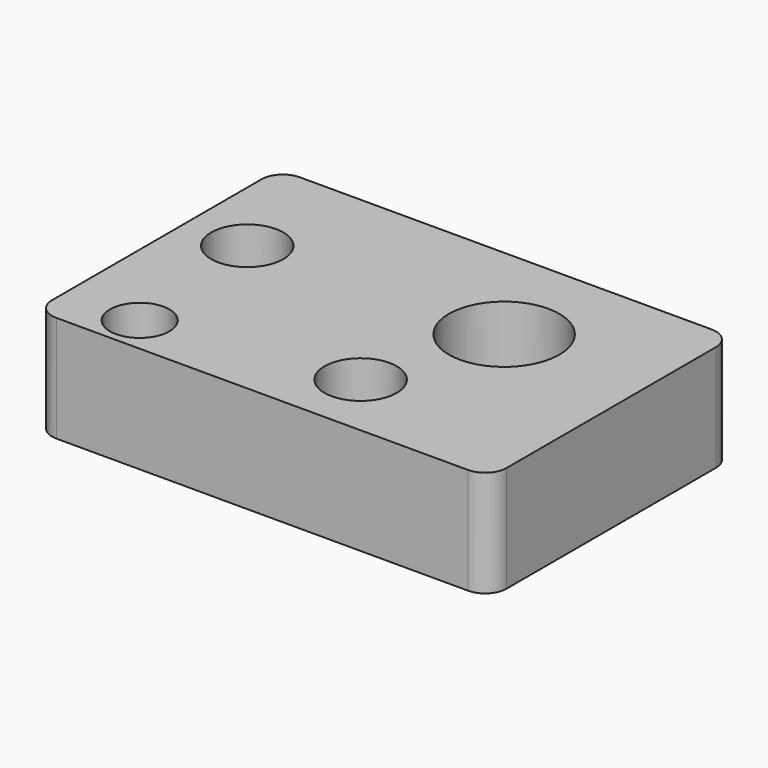
from build123d import *

# Parameters (mm, degrees)
F0_W     = 106.902622
F0_H     = 71.619071
F1_DEPTH = 25
F2_R     = 5
F4_D     = 14
F5_D     = 17
F6_D     = 17
F7_D     = 26


with BuildPart() as f1:
    # F0 (on Top) → F1 (new body)
    with BuildSketch(Plane.XY):
        with Locations((8.139081, -35.809535)):
            Rectangle(F0_W, F0_H)
    extrude(amount=F1_DEPTH)

    # F2
    f2_edges = [f1.edges().sort_by_distance(p)[0] for p in [
        (-45.31223, -71.619071, 12.5),
        (61.590392, -71.619071, 12.5),
        (61.590392, 0, 12.5),
        (-45.31223, 0, 12.5),
    ]]
    fillet(f2_edges, radius=F2_R)

    # F4 (through all)
    with Locations(Plane.XY.offset(25)):
        with Locations((-27.718794, -62.822722)):
            Hole(F4_D / 2)

    # F5 (through all)
    with Locations(Plane.XY.offset(25)):
        with Locations((-30.82606, -27.311074)):
            Hole(F5_D / 2)

    # F6 (through all)
    with Locations(Plane.XY.offset(25)):
        with Locations((18.690022, -55.862375)):
            Hole(F6_D / 2)

    # F7 (through all)
    with Locations(Plane.XY.offset(25)):
        with Locations((28.00785, -25.314316)):
            Hole(F7_D / 2)


solid = f1.part
